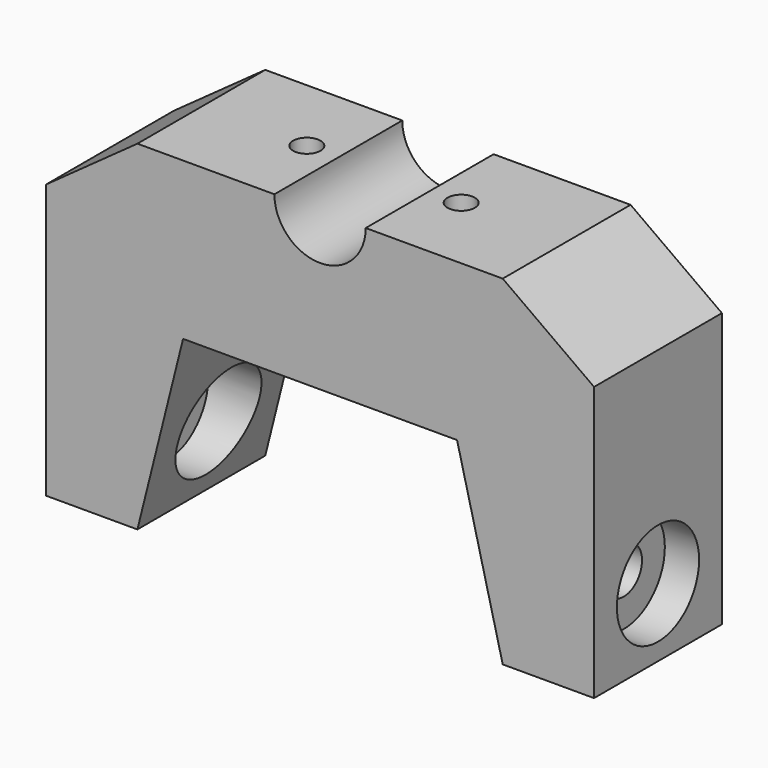
from build123d import *

# Parameters (mm, degrees)
F1_DEPTH  = 35
F2_R      = 3
F3_DEPTH  = 34.3740698971
F4_R      = 5
F5_DEPTH  = 120.001
F6_R      = 11.25
F7_DEPTH  = 7.5
F8_R      = 11.25
F9_DEPTH  = 7.5
F10_R     = 11.25
F11_DEPTH = 47.5
F12_R     = 11.25
F13_DEPTH = 47.5


with BuildPart() as f1:
    # F0 (on Front) → F1 (new body)
    with BuildSketch(Plane.XZ):
        with BuildLine():
            Line((-40, 19.3730698971), (-60, 5))
            Line((-60, 5), (-60, 0))
            Line((-60, 0), (-60, -55))
            Line((-60, -55), (-40, -55))
            Line((-40, -55), (-30, -15))
            Line((-30, -15), (0, -15))
            Line((0, -15), (30, -15))
            Line((30, -15), (40, -55))
            Line((40, -55), (60, -55))
            Line((60, -55), (60, 0))
            Line((60, 0), (60, 5))
            Line((60, 5), (40, 19.3730698971))
            Line((40, 19.3730698971), (10, 19.3730698971))
            ThreePointArc((10, 19.3730698971), (0, 9.3730698971), (-10, 19.3730698971))
            Line((-10, 19.3730698971), (-40, 19.3730698971))
        make_face()
    extrude(amount=F1_DEPTH)

    # F2 (on face) → F3 (cut, through all)
    with BuildSketch(Plane(origin=(0, 0, -15), x_dir=(1, 0, 0), z_dir=(0, 0, -1))):
        with Locations((-16.9, 17.5)):
            Circle(F2_R)
        with Locations((16.9, 17.5)):
            Circle(F2_R)
    extrude(amount=-F3_DEPTH, mode=Mode.SUBTRACT)

    # F4 (on face) → F5 (cut, through all)
    with BuildSketch(Plane(origin=(-60, 0, 0), x_dir=(0, -1, 0), z_dir=(-1, 0, 0))):
        with Locations((17.5, -40)):
            Circle(F4_R)
    extrude(amount=-F5_DEPTH, mode=Mode.SUBTRACT)

    # F6 (on face) → F7 (cut)
    with BuildSketch(Plane(origin=(-60, 0, 0), x_dir=(0, -1, 0), z_dir=(-1, 0, 0))):
        with Locations((17.5, -40)):
            Circle(F6_R)
    extrude(amount=-F7_DEPTH, mode=Mode.SUBTRACT)

    # F8 (on face) → F9 (cut)
    with BuildSketch(Plane.YZ.offset(60)):
        with Locations((-17.5, -40)):
            Circle(F8_R)
    extrude(amount=-F9_DEPTH, mode=Mode.SUBTRACT)

    # F10 (on Right) → F11 (cut)
    with BuildSketch(Plane.YZ):
        with Locations((-17.5, -40)):
            Circle(F10_R)
    extrude(amount=-F11_DEPTH, mode=Mode.SUBTRACT)

    # F12 (on Right) → F13 (cut)
    with BuildSketch(Plane.YZ):
        with Locations((-17.5, -40)):
            Circle(F12_R)
    extrude(amount=F13_DEPTH, mode=Mode.SUBTRACT)


solid = f1.part
